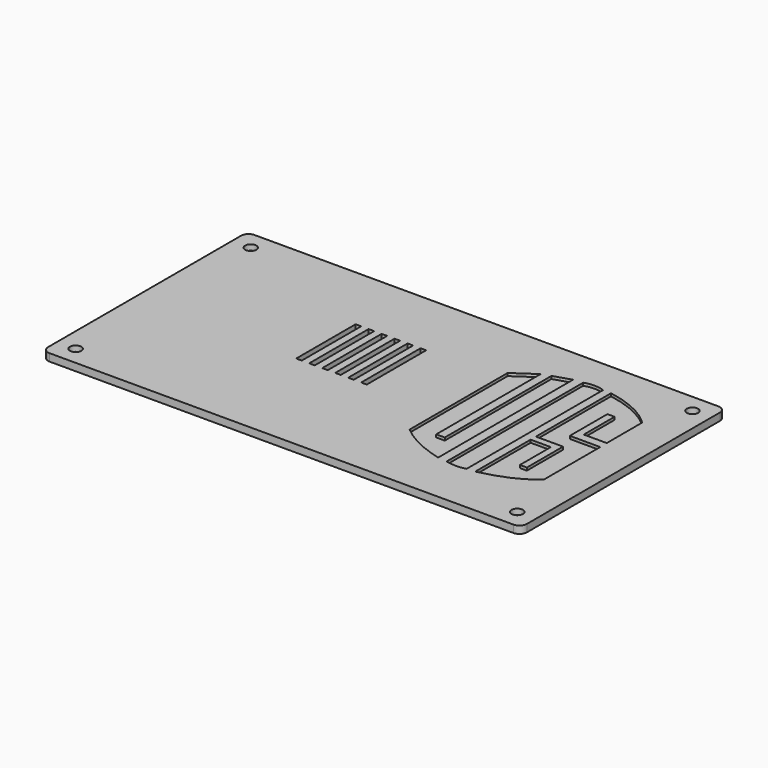
from build123d import *

# Parameters (mm, degrees)
PAD010_DEPTH        = 4
HOLE002_D           = 3.4
HOLE002_DEPTH       = 24
HOLE002_CBORE_D     = 6.1
HOLE002_CBORE_DEPTH = 3
POCKET043_DEPTH     = 1.5
SKETCH091_W         = 3
SKETCH091_H         = 40
POCKET045_DEPTH     = 4


with BuildPart() as part:
    # Sketch015 → Pad010 (new body)
    with BuildSketch(Plane.XY):
        with BuildLine():
            Line((-124.99075, 69), (124.948214, 69))
            ThreePointArc((129, 64.948214), (127.813259, 67.813259), (124.948214, 69))
            Line((129, 64.948214), (129, -64.984535))
            ThreePointArc((124.984535, -69), (127.823898, -67.823898), (129, -64.984535))
            Line((124.984535, -69), (-124.984431, -69))
            ThreePointArc((-129, -64.984431), (-127.823867, -67.823867), (-124.984431, -69))
            Line((-129, -64.984431), (-129, 64.99075))
            ThreePointArc((-124.99075, 69), (-127.825718, 67.825718), (-129, 64.99075))
        make_face()
    extrude(amount=PAD010_DEPTH)

    # Hole002
    with Locations(Plane.XY.offset(4)):
        with Locations((119, 59), (119, -59), (-119, -59), (-119, 59)):
            CounterBoreHole(HOLE002_D / 2, HOLE002_CBORE_D / 2, HOLE002_CBORE_DEPTH, depth=HOLE002_DEPTH)

    # Sketch089 (on Face5 of Hole002) → Pocket043 (cut)
    with BuildSketch(Plane.XY.offset(4)):
        with BuildLine():
            Line((36.7238, 37.343498), (48.20425, 45.236282))
            Line((48.20425, 45.236282), (48.20425, -25.081245))
            Line((48.20425, -25.081245), (52.796413, -25.081245))
            Line((52.796413, -25.081245), (52.796413, 46.814838))
            Line((52.796413, 46.814838), (62.068642, 49.73225))
            Line((62.068642, 49.73225), (62.068642, -41.094688))
            add(Edge.make_bspline(
                [(36.7238, -28.6689), (46.109684, -36.920414), (62.068642, -41.094688)],
                knots=[0, 0, 0, 1, 1, 1], degree=2))
            Line((36.7238, -28.6689), (36.7238, 37.343498))
        make_face()
        with BuildLine():
            Line((67.0756, 50.311272), (67.0756, -41.6952))
            add(Edge.make_bspline(
                [(67.0756, -41.6952), (72.712952, -42.974892), (77.829697, -41.6952)],
                knots=[0, 0, 0, 1, 1, 1], degree=2))
            Line((77.829697, -41.6952), (77.829697, 50.311272))
            add(Edge.make_bspline(
                [(67.0756, 50.311272), (72.3466, 52.139), (77.829697, 50.311272)],
                knots=[0, 0, 0, 1, 1, 1], degree=2))
        make_face()
        with BuildLine():
            Line((82.232217, -41.319175), (82.232217, -4.042601))
            Line((82.232217, -4.042601), (93.129532, -4.042601))
            Line((93.129532, -4.042601), (93.129532, -24.870003))
            Line((93.129532, -24.870003), (96.869438, -24.870003))
            Line((96.869438, -24.870003), (96.869438, -0.496148))
            Line((96.869438, -0.496148), (82.232217, -0.496148))
            Line((82.232217, -0.496148), (82.232217, 50.127594))
            add(Edge.make_bspline(
                [(82.232217, 50.127594), (99.503464, 47.005421), (109.208389, 37.33326)],
                knots=[0, 0, 0, 1, 1, 1], degree=2))
            Line((109.208389, 37.33326), (109.208389, 13.513237))
            Line((109.208389, 13.513237), (96.821526, 13.513237))
            Line((96.821526, 13.513237), (96.821526, 34.283985))
            Line((96.821526, 34.283985), (92.941208, 34.283985))
            Line((92.941208, 34.283985), (92.941208, 8.968042))
            Line((92.941208, 8.968042), (109.336434, 8.968042))
            Line((109.336434, 8.968042), (109.336434, -28.622425))
            add(Edge.make_bspline(
                [(82.232217, -41.319175), (100.984909, -37.142326), (109.336434, -28.622425)],
                knots=[0, 0, 0, 1, 1, 1], degree=2))
        make_face()
    extrude(amount=-POCKET043_DEPTH, mode=Mode.SUBTRACT)

    # Sketch091 (on Face5 of Pocket043) → Pocket045 (cut)
    with BuildSketch(Plane.XY.offset(4)):
        with Locations((-39.456103, 12.056475)):
            Rectangle(SKETCH091_W, SKETCH091_H)
        with Locations((-32.456103, 12.056475)):
            Rectangle(SKETCH091_W, SKETCH091_H)
        with Locations((-25.456103, 12.056475)):
            Rectangle(SKETCH091_W, SKETCH091_H)
        with Locations((-18.456103, 12.056475)):
            Rectangle(SKETCH091_W, SKETCH091_H)
        with Locations((-11.456103, 12.056475)):
            Rectangle(SKETCH091_W, SKETCH091_H)
        with Locations((-4.456103, 12.056475)):
            Rectangle(SKETCH091_W, SKETCH091_H)
    extrude(amount=-POCKET045_DEPTH, mode=Mode.SUBTRACT)


with BuildPart() as part_1:
    # Body005 placement: moved
    add(part.part.moved(Location((0, 0, 70))))


solid = part_1.part
